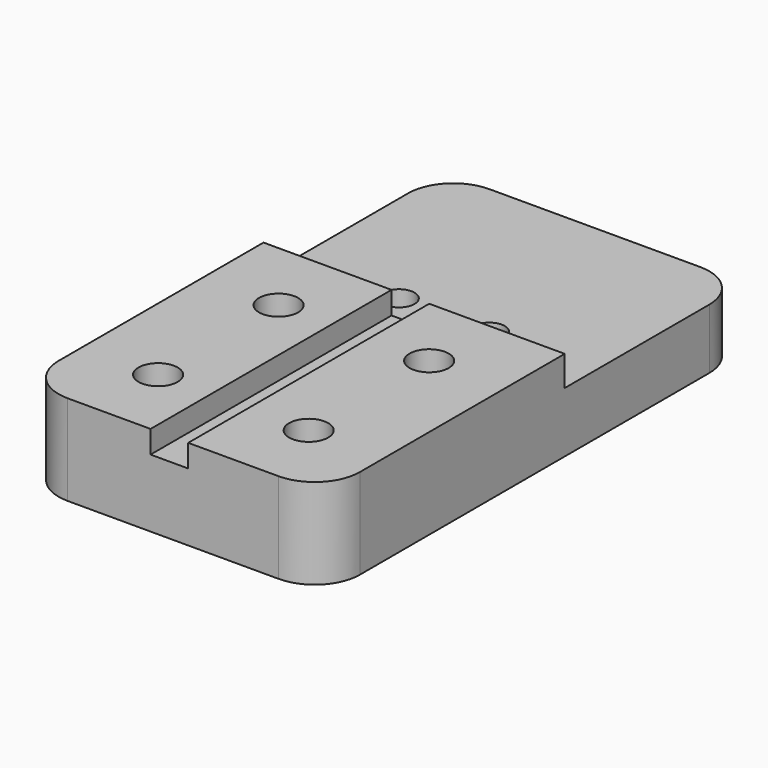
from build123d import *

# Parameters (mm, degrees)
SKETCH_W        = 40
SKETCH_H        = 70
SKETCH_R        = 2.6
PAD_DEPTH       = 12
SKETCH001_W     = 40
SKETCH001_H     = 30
POCKET_DEPTH    = 4
SKETCH002_R     = 2.05
POCKET001_DEPTH = 10
SKETCH003_W     = 5
SKETCH003_H     = 40.063374
POCKET002_DEPTH = 3
FILLET_R        = 6


with BuildPart() as part:
    # Sketch → Pad (new body)
    with BuildSketch(Plane.XY):
        with Locations((20, 35)):
            Rectangle(SKETCH_W, SKETCH_H)
        with Locations((10, 10)):
            Circle(SKETCH_R, mode=Mode.SUBTRACT)
        with Locations((30, 10)):
            Circle(SKETCH_R, mode=Mode.SUBTRACT)
        with Locations((10, 30)):
            Circle(SKETCH_R, mode=Mode.SUBTRACT)
        with Locations((30, 30)):
            Circle(SKETCH_R, mode=Mode.SUBTRACT)
    extrude(amount=PAD_DEPTH)

    # Sketch001 (on Face10 of Pad) → Pocket (cut)
    with BuildSketch(Plane.XY.offset(12)):
        with Locations((20, 55)):
            Rectangle(SKETCH001_W, SKETCH001_H)
    extrude(amount=-POCKET_DEPTH, mode=Mode.SUBTRACT)

    # Sketch002 (on Face7 of Pocket) → Pocket001 (cut)
    with BuildSketch(Plane.XY.offset(8)):
        with Locations((14, 45)):
            Circle(SKETCH002_R)
        with Locations((26, 45)):
            Circle(SKETCH002_R)
    extrude(amount=-POCKET001_DEPTH, mode=Mode.SUBTRACT)

    # Sketch003 (on Face5 of Pocket001) → Pocket002 (cut)
    with BuildSketch(Plane.XY.offset(12)):
        with Locations((19.500526, 20.031687)):
            Rectangle(SKETCH003_W, SKETCH003_H)
    extrude(amount=-POCKET002_DEPTH, mode=Mode.SUBTRACT)

    # Fillet
    fillet_edges = [part.edges().sort_by_distance(p)[0] for p in [
        (40, 0, 6),
        (40, 70, 4),
        (0, 70, 4),
        (0, 0, 6),
    ]]
    fillet(fillet_edges, radius=FILLET_R)


solid = part.part
